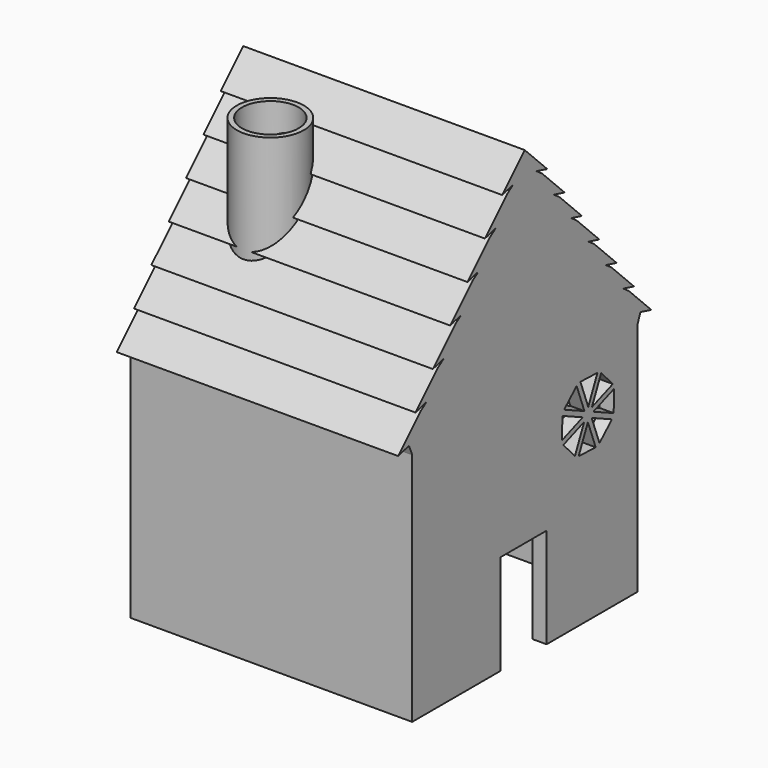
from build123d import *

# Parameters (mm, degrees)
F0_W     = 50.8
F0_H     = 50.8
F0_W_2   = 45.72
F0_H_2   = 45.72
F1_DEPTH = 42.418
F2_W     = 10.449068
F2_H     = 18.06196
F3_DEPTH = 33.02
F5_DEPTH = 50.8
F6_R     = 6.04507
F6_R_2   = 5.111914
F7_DEPTH = 35.56
F9_DEPTH = 25.4


with BuildPart() as f1:
    # F0 (on Top) → F1 (new body)
    with BuildSketch(Plane.XY):
        Rectangle(F0_W, F0_H)
        Rectangle(F0_W_2, F0_H_2, mode=Mode.SUBTRACT)
    extrude(amount=F1_DEPTH)

    # F2 (on face) → F3 (cut)
    with BuildSketch(Plane.YZ.offset(25.4)):
        with Locations((-0.298544, 9.03098)):
            Rectangle(F2_W, F2_H)
    extrude(amount=-F3_DEPTH, mode=Mode.SUBTRACT)

    # F4 (on face) → F5 (join)
    with BuildSketch(Plane.YZ.offset(25.4)):
        Polygon((5.08, 75.438), (0, 80.518), (-5.08, 75.438), (-2.626548, 76.0954), (-3.912723, 75.197905), (-8.992723, 70.117905), (-6.539271, 70.775305), (-7.825446, 69.877809), (-12.905446, 64.797809), (-10.451994, 65.455209), (-11.738169, 64.557714), (-16.818169, 59.477714), (-14.364717, 60.135114), (-15.650891, 59.237618), (-20.730891, 54.157618), (-18.27744, 54.815018), (-19.563614, 53.917523), (-24.643614, 48.837523), (-22.190163, 49.494923), (-23.476337, 48.597427), (-28.556337, 43.517427), (-26.102885, 44.174827), (-25.4, 42.418), (25.4, 42.418), (26.102885, 44.174827), (28.556337, 43.517427), (23.476337, 48.597427), (22.190163, 49.494923), (24.643614, 48.837523), (19.563614, 53.917523), (18.27744, 54.815018), (20.730891, 54.157618), (15.650891, 59.237618), (14.364717, 60.135114), (16.818169, 59.477714), (11.738169, 64.557714), (10.451994, 65.455209), (12.905446, 64.797809), (7.825446, 69.877809), (6.539271, 70.775305), (8.992723, 70.117905), (3.912723, 75.197905), (2.626548, 76.0954), align=None)
    extrude(amount=-F5_DEPTH)

    # F6 (on face) → F7 (join)
    with BuildSketch(Plane(origin=(0, 0, 42.418), x_dir=(1, 0, 0), z_dir=(0, 0, -1))):
        with Locations((-11.792519, 10.896885)):
            Circle(F6_R)
        with Locations((-11.792519, 10.896885)):
            Circle(F6_R_2, mode=Mode.SUBTRACT)
    extrude(amount=-F7_DEPTH)

    # F8 (on face) → F9 (cut)
    with BuildSketch(Plane.YZ.offset(25.4)):
        Polygon((13.460486, 33.579258), (11.696823, 38.290104), (8.882317, 35.663231), align=None)
        Polygon((14.316839, 33.899863), (16.400811, 38.478032), (12.553176, 38.610708), align=None)
        Polygon((15.149074, 33.521031), (19.859919, 35.284695), (17.233046, 38.0992), align=None)
        Polygon((13.081654, 32.747024), (8.503485, 34.830996), (8.370809, 30.98336), align=None)
        Polygon((13.402259, 31.89067), (8.691413, 30.127007), (11.318286, 27.312501), align=None)
        Polygon((14.234494, 31.511839), (12.150521, 26.93367), (15.998157, 26.800994), align=None)
        Polygon((15.090847, 31.832444), (16.85451, 27.121598), (19.669016, 29.748471), align=None)
        Polygon((15.469678, 32.664678), (20.047847, 30.580706), (20.180524, 34.428342), align=None)
    extrude(amount=-F9_DEPTH, mode=Mode.SUBTRACT)


solid = f1.part
